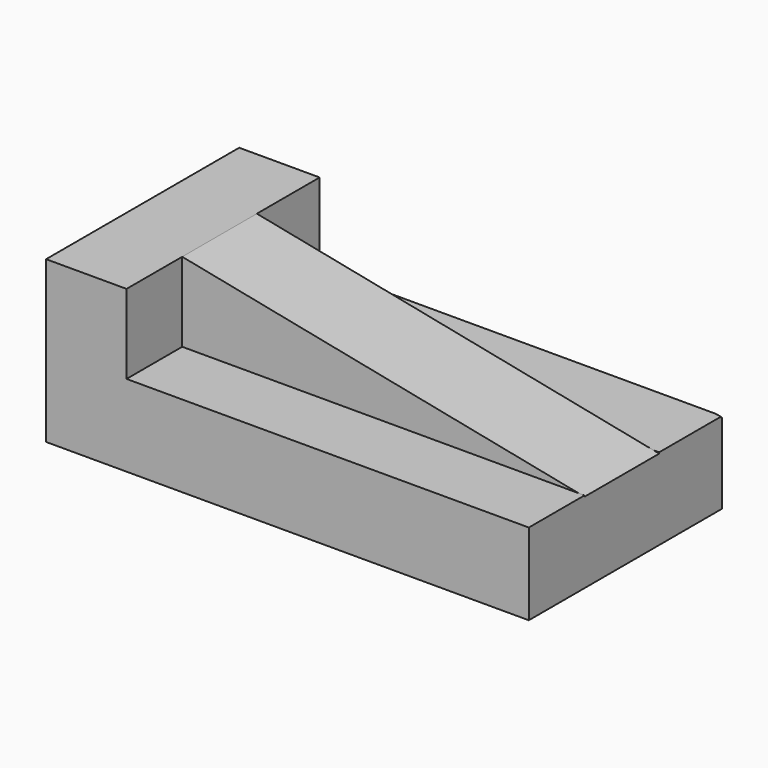
from build123d import *

# Parameters (mm, degrees)
F2_DEPTH = 76.2
F1_W     = 21.9710022211
F1_H     = 51.1809997261
F3_DEPTH = 127
F1_W_2   = 24.3839994073
F4_DEPTH = 127
F5_DEPTH = 25.4
F6_DEPTH = 25.4


with BuildPart() as f2:
    # F0 (on Front) → F2 (new body)
    with BuildSketch(Plane.XZ):
        Polygon((-152.4, 0), (0, 0), (0, 25.4), (-127, 25.4), (-127, 50.8), (-152.4, 50.8), align=None)
        Polygon((-127, 25.4), (0, 25.4), (-127, 50.8), align=None)
    extrude(amount=-F2_DEPTH)

    # F1 (on Right) → F3 (join)
    with BuildSketch(Plane.YZ):
        with Locations((10.9855011106, 25.590499863)):
            Rectangle(F1_W, F1_H)
    extrude(amount=-F3_DEPTH)

    # F1 (on Right) → F4 (join)
    with BuildSketch(Plane.YZ):
        with Locations((63.6270008981, 25.590499863)):
            Rectangle(F1_W_2, F1_H)
    extrude(amount=-F4_DEPTH)

    # F5 (cut): faces of the model
    f5_faces = [f2.faces().sort_by_distance(p)[0] for p in [
        (-63.5, 10.9855011106, 51.1809997261),
        (-63.5, 63.6270008981, 51.1809997261),
    ]]
    extrude(f5_faces, amount=-F5_DEPTH, mode=Mode.SUBTRACT)

    # F6 (cut): a face of the model
    f6_faces = [f2.faces().sort_by_distance(p)[0] for p in [
        (-85.3016662101, 75.8190006018, 34.120666484),
    ]]
    extrude(f6_faces, amount=-F6_DEPTH, mode=Mode.SUBTRACT)


solid = f2.part
